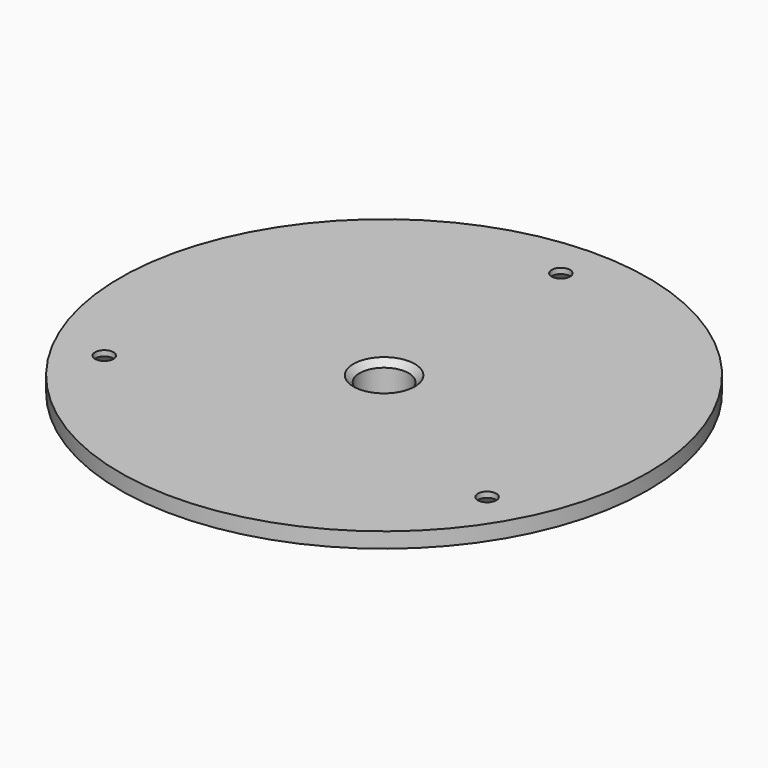
from build123d import *

# Parameters (mm, degrees)
SKETCH006_R     = 43
SKETCH006_R_2   = 1.5
SKETCH006_R_3   = 4
PAD_DEPTH       = 2.5
CHAMFER001_SIZE = 1.6
SKETCH_R        = 6.5
SKETCH_R_2      = 4
PAD001_DEPTH    = 5
CHAMFER_SIZE    = 1


with BuildPart() as part:
    # Sketch006 → Pad (new body)
    with BuildSketch(Plane.XY.offset(22)):
        Circle(SKETCH006_R)
        with Locations((0, 36)):
            Circle(SKETCH006_R_2, mode=Mode.SUBTRACT)
        with Locations((31.176915, -18)):
            Circle(SKETCH006_R_2, mode=Mode.SUBTRACT)
        with Locations((-31.176915, -18)):
            Circle(SKETCH006_R_2, mode=Mode.SUBTRACT)
        Circle(SKETCH006_R_3, mode=Mode.SUBTRACT)
    extrude(amount=PAD_DEPTH)

    # Chamfer001
    chamfer001_edges = [part.edges().sort_by_distance(p)[0] for p in [
        (-32.676915, -18, 22),
        (29.676915, -18, 22),
        (-1.5, 36, 22),
    ]]
    chamfer(chamfer001_edges, length=CHAMFER001_SIZE)

    # Sketch (on Face4 of Chamfer001) → Pad001 (join)
    with BuildSketch(Plane(origin=(0, 0, 22), x_dir=(1, 0, 0), z_dir=(0, 0, -1))):
        Circle(SKETCH_R)
        Circle(SKETCH_R_2, mode=Mode.SUBTRACT)
    extrude(amount=PAD001_DEPTH)

    # Chamfer
    chamfer_edges = [part.edges().sort_by_distance(p)[0] for p in [
        (-4, 0, 24.5),
    ]]
    chamfer(chamfer_edges, length=CHAMFER_SIZE)


solid = part.part
